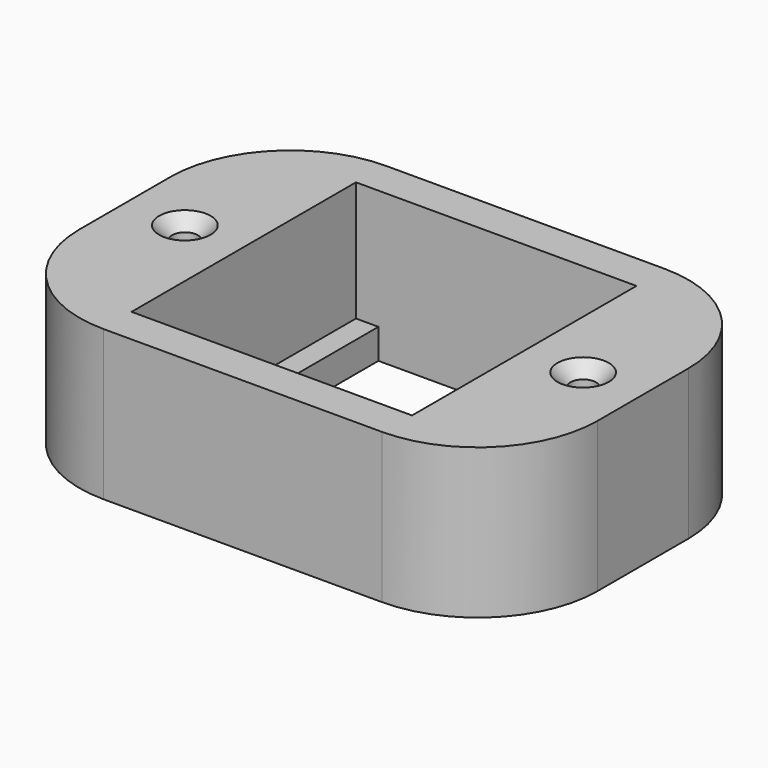
from build123d import *

# Parameters (mm, degrees)
F0_W     = 24.2
F0_H     = 16.5
F1_DEPTH = 7
F2_R     = 5.6
F3_W     = 13.1
F3_H     = 13.1
F4_DEPTH = 7.001
F5_W     = 1.05
F5_H     = 13.1
F6_DEPTH = 1.4
F7_R     = 0.6
F8_DEPTH = 7.001
F9_SIZE  = 0.6


with BuildPart() as f1:
    # F0 (on Top) → F1 (new body)
    with BuildSketch(Plane.XY):
        Rectangle(F0_W, F0_H)
    extrude(amount=F1_DEPTH)

    # F2
    f2_edges = [f1.edges().sort_by_distance(p)[0] for p in [
        (-12.1, -8.25, 3.5),
        (12.1, -8.25, 3.5),
        (12.1, 8.25, 3.5),
        (-12.1, 8.25, 3.5),
    ]]
    fillet(f2_edges, radius=F2_R)

    # F3 (on face) → F4 (cut, through all)
    with BuildSketch(Plane(origin=(0, 0, 0), x_dir=(1, 0, 0), z_dir=(0, 0, -1))):
        Rectangle(F3_W, F3_H)
    extrude(amount=-F4_DEPTH, mode=Mode.SUBTRACT)

    # F5 (on face) → F6 (join)
    with BuildSketch(Plane(origin=(0, 0, 0), x_dir=(1, 0, 0), z_dir=(0, 0, -1))):
        with Locations((-6.025, 0)):
            Rectangle(F5_W, F5_H)
        with Locations((6.025, 0)):
            Rectangle(F5_W, F5_H)
    extrude(amount=-F6_DEPTH)

    # F7 (on face) → F8 (cut, through all)
    with BuildSketch(Plane(origin=(0, 0, 0), x_dir=(1, 0, 0), z_dir=(0, 0, -1))):
        with Locations((-9.3, 0)):
            Circle(F7_R)
        with Locations((9.3, 0)):
            Circle(F7_R)
    extrude(amount=-F8_DEPTH, mode=Mode.SUBTRACT)

    # F9
    f9_edges = [f1.edges().sort_by_distance(p)[0] for p in [
        (8.7, 0, 7),
        (-9.9, 0, 7),
    ]]
    chamfer(f9_edges, length=F9_SIZE)


solid = f1.part
